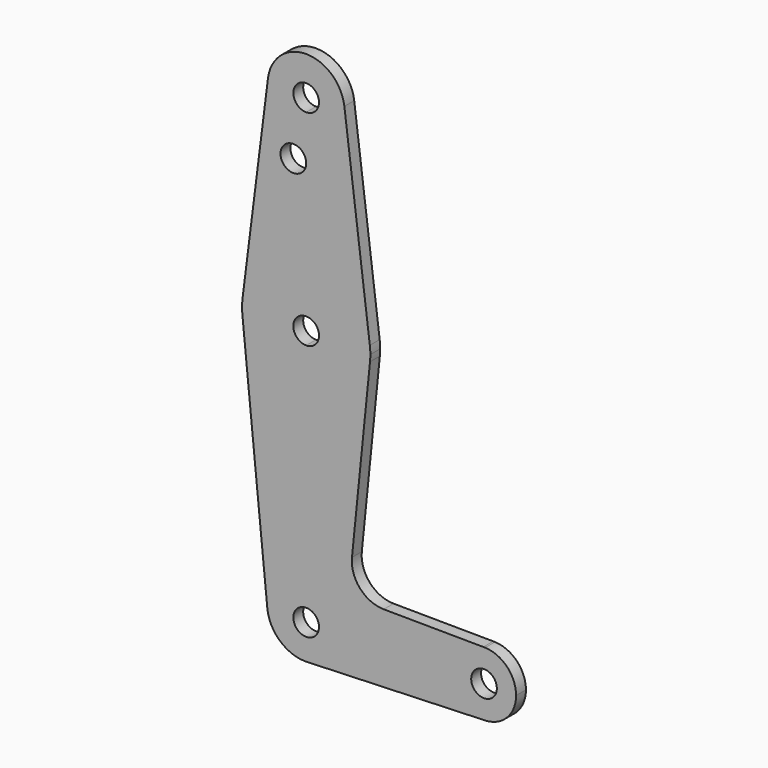
from build123d import *

# Parameters (mm, degrees)
F0_R     = 3.175
F1_DEPTH = 3.048


with BuildPart() as f1:
    # F0 (on Front) → F1 (new body)
    with BuildSketch(Plane.XZ):
        with BuildLine():
            ThreePointArc((-9.4502929642, 115.490625), (-7.14375, 107.9998046905), (0, 104.775))
            ThreePointArc((0, 104.775), (6.7351920908, 107.5648079092), (9.525, 114.3))
            ThreePointArc((9.525, 114.3), (9.5063048942, 114.896483242), (9.4502929642, 115.490625))
            ThreePointArc((9.4502929642, 115.490625), (0, 123.825), (-9.4502929642, 115.490625))
        make_face()
        with BuildLine():
            ThreePointArc((3.175, 114.3), (2.2450640303, 112.0549359697), (0, 111.125))
            ThreePointArc((0, 111.125), (-2.2450640303, 116.5450640303), (3.175, 114.3))
        make_face(mode=Mode.SUBTRACT)
        with BuildLine():
            ThreePointArc((9.525, 114.3), (6.7351920908, 107.5648079092), (0, 104.775))
            Line((0, 104.775), (0, 100.0252))
            Line((0, 100.0252), (0, 79.375))
            ThreePointArc((0, 79.375), (10.5003255158, 75.40625), (15.7504882737, 65.484375))
            Line((15.7504882737, 65.484375), (9.4502929642, 115.490625))
            ThreePointArc((9.4502929642, 115.490625), (9.5063048942, 114.896483242), (9.525, 114.3))
        make_face()
        with BuildLine():
            Line((0, 100.0252), (0, 104.775))
            ThreePointArc((0, 104.775), (-7.14375, 107.9998046905), (-9.4502929642, 115.490625))
            Line((-9.4502929642, 115.490625), (-15.7504882737, 65.484375))
            ThreePointArc((-15.7504882737, 65.484375), (-10.5003255158, 75.40625), (0, 79.375))
            Line((0, 79.375), (0, 100.0252))
        make_face()
        with Locations((-3.175, 100.0252)):
            Circle(F0_R, mode=Mode.SUBTRACT)
        with BuildLine():
            ThreePointArc((15.7504882737, 65.484375), (10.5003255158, 75.40625), (0, 79.375))
            Line((0, 79.375), (0, 66.675))
            ThreePointArc((0, 66.675), (2.2450640303, 65.7450640303), (3.175, 63.5))
            ThreePointArc((3.175, 63.5), (2.2450640303, 61.2549359697), (0, 60.325))
            Line((0, 60.325), (0, 47.625))
            ThreePointArc((0, 47.625), (10.644756084, 51.722700101), (15.7942028036, 61.9003804205))
            ThreePointArc((15.7942028036, 61.9003804205), (15.8547878338, 62.6991705884), (15.875, 63.5))
            ThreePointArc((15.875, 63.5), (15.8438414904, 64.4941387366), (15.7504882737, 65.484375))
        make_face()
        with BuildLine():
            Line((0, 66.675), (0, 79.375))
            ThreePointArc((0, 79.375), (-10.5003255158, 75.40625), (-15.7504882737, 65.484375))
            ThreePointArc((-15.7504882737, 65.484375), (-15.8736615314, 63.7061421479), (-15.7967078071, 61.9253103614))
            ThreePointArc((-15.7967078071, 61.9253103614), (-10.654046813, 51.731104066), (0, 47.625))
            Line((0, 47.625), (0, 60.325))
            ThreePointArc((0, 60.325), (-3.175, 63.5), (0, 66.675))
        make_face()
        with BuildLine():
            ThreePointArc((0, 47.625), (-10.654046813, 51.731104066), (-15.7967078071, 61.9253103614))
            Line((-15.7967078071, 61.9253103614), (-9.6237035468, 0))
            ThreePointArc((-9.6237035468, 0), (-6.2425932856, -6.3731954761), (0.6363326472, -8.5480299951))
            Line((0.6363326472, -8.5480299951), (44.2966560637, -6.9799567151))
            ThreePointArc((44.2966560637, -6.9799567151), (38.5007476652, -4.760068442), (36.0742621149, 0.9524289089))
            ThreePointArc((36.0742621149, 0.9524289089), (38.342557719, 6.5079691858), (43.851025017, 8.8883012514))
            Line((43.851025017, 8.8883012514), (19.1785794693, 9.0813440635))
            ThreePointArc((19.1785794693, 9.0813440635), (13.3219004939, 11.7235210663), (11.33104497, 17.8323902103))
            Line((11.33104497, 17.8323902103), (15.7942028036, 61.9003804205))
            ThreePointArc((15.7942028036, 61.9003804205), (10.644756084, 51.722700101), (0, 47.625))
        make_face()
        with BuildLine():
            ThreePointArc((3.175, 0), (-2.2450640303, -2.2450640303), (0, 3.175))
            ThreePointArc((0, 3.175), (2.2450640303, 2.2450640303), (3.175, 0))
        make_face(mode=Mode.SUBTRACT)
        with BuildLine():
            ThreePointArc((36.0742621149, 0.9524289089), (38.5007476652, -4.760068442), (44.2966560637, -6.9799567151))
            ThreePointArc((44.2966560637, -6.9799567151), (49.7242594659, -4.5585855408), (51.9492621149, 0.9524289089))
            ThreePointArc((51.9492621149, 0.9524289089), (49.7242594659, 6.4634433587), (44.2966560637, 8.8848145329))
            Line((44.2966560637, 8.8848145329), (43.851025017, 8.8883012514))
            ThreePointArc((43.851025017, 8.8883012514), (38.342557719, 6.5079691858), (36.0742621149, 0.9524289089))
        make_face()
        with BuildLine():
            ThreePointArc((47.1867621149, 0.9524289089), (44.0117621149, -2.2225710911), (40.8367621149, 0.9524289089))
            ThreePointArc((40.8367621149, 0.9524289089), (44.0117621149, 4.1274289089), (47.1867621149, 0.9524289089))
        make_face(mode=Mode.SUBTRACT)
        with BuildLine():
            ThreePointArc((44.2966560637, 8.8848145329), (44.0738650151, 8.8896859591), (43.851025017, 8.8883012514))
            Line((43.851025017, 8.8883012514), (44.2966560637, 8.8848145329))
        make_face()
    extrude(amount=F1_DEPTH)


solid = f1.part
